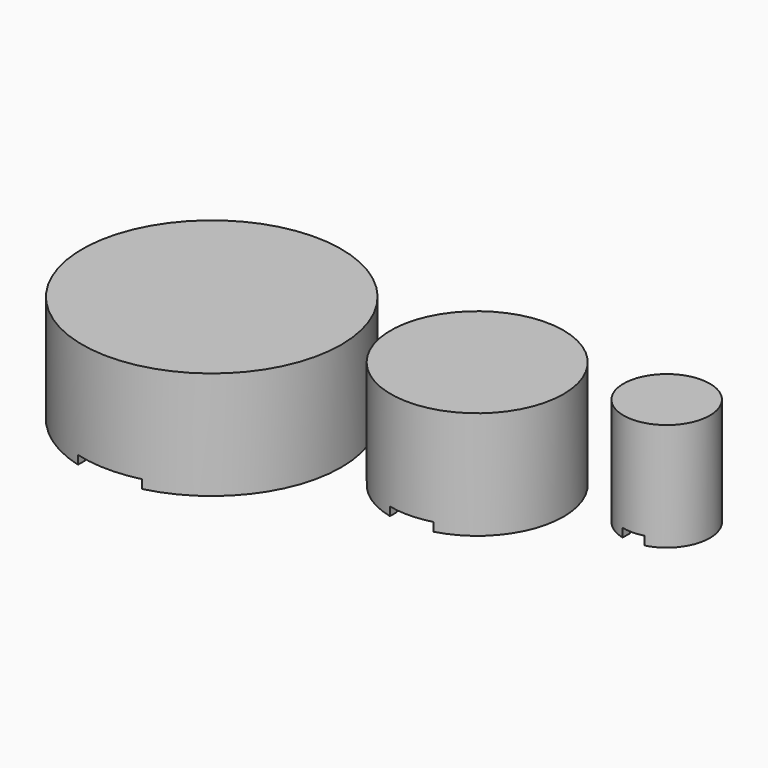
from build123d import *

# Parameters (mm, degrees)
F0_R     = 38.1
F1_DEPTH = 31.75
F0_R_2   = 25.4
F0_R_3   = 12.7
F2_T     = -2.54
F2_2_T   = -2.54
F2_3_T   = -2.54
F3_W     = 6.35
F3_H     = 2.54
F3_W_2   = 12.7
F3_W_3   = 19.05
F4_DEPTH = 88.9


with BuildPart() as f1:
    # F0 (on Top) → F1 (new body)
    with BuildSketch(Plane.XY):
        with Locations((-54.076526314, -38.1)):
            Circle(F0_R)
    extrude(amount=F1_DEPTH)

    # F2#3
    f2_3_openings = [f1.faces().sort_by_distance(p)[0] for p in [
        (-54.076526, -38.1, 0),
    ]]
    offset(amount=F2_3_T, openings=f2_3_openings)


with BuildPart() as f1b:
    # F0 (on Top) → F1, piece 2 (new body)
    with BuildSketch(Plane.XY):
        with Locations((13.8389375061, -25.4)):
            Circle(F0_R_2)
    extrude(amount=F1_DEPTH)

    # F2
    f2_openings = [f1b.faces().sort_by_distance(p)[0] for p in [
        (13.838938, -25.4, 0),
    ]]
    offset(amount=F2_T, openings=f2_openings)


with BuildPart() as f1c:
    # F0 (on Top) → F1, piece 3 (new body)
    with BuildSketch(Plane.XY):
        with Locations((59.426035732, -12.7)):
            Circle(F0_R_3)
    extrude(amount=F1_DEPTH)

    # F2#2
    f2_2_openings = [f1c.faces().sort_by_distance(p)[0] for p in [
        (59.426036, -12.7, 0),
    ]]
    offset(amount=F2_2_T, openings=f2_2_openings)


with BuildPart() as f4_tool:
    # F3 (on Front) → F4 (new body)
    with BuildSketch(Plane.XZ):
        with Locations((59.5019853592, 1.27)):
            Rectangle(F3_W, F3_H)
        with Locations((14.2790494323, 1.27)):
            Rectangle(F3_W_2, F3_H)
        with Locations((-54.4776330948, 1.27)):
            Rectangle(F3_W_3, F3_H)
    extrude(amount=F4_DEPTH)


with BuildPart() as f1_1:
    add(f1.part)

    # F4: cut by f4_tool
    add(f4_tool.part, mode=Mode.SUBTRACT)


with BuildPart() as f1b_1:
    add(f1b.part)

    # F4: cut by f4_tool
    add(f4_tool.part, mode=Mode.SUBTRACT)


with BuildPart() as f1c_1:
    add(f1c.part)

    # F4: cut by f4_tool
    add(f4_tool.part, mode=Mode.SUBTRACT)


solid = Compound([f1_1.part, f1b_1.part, f1c_1.part])
